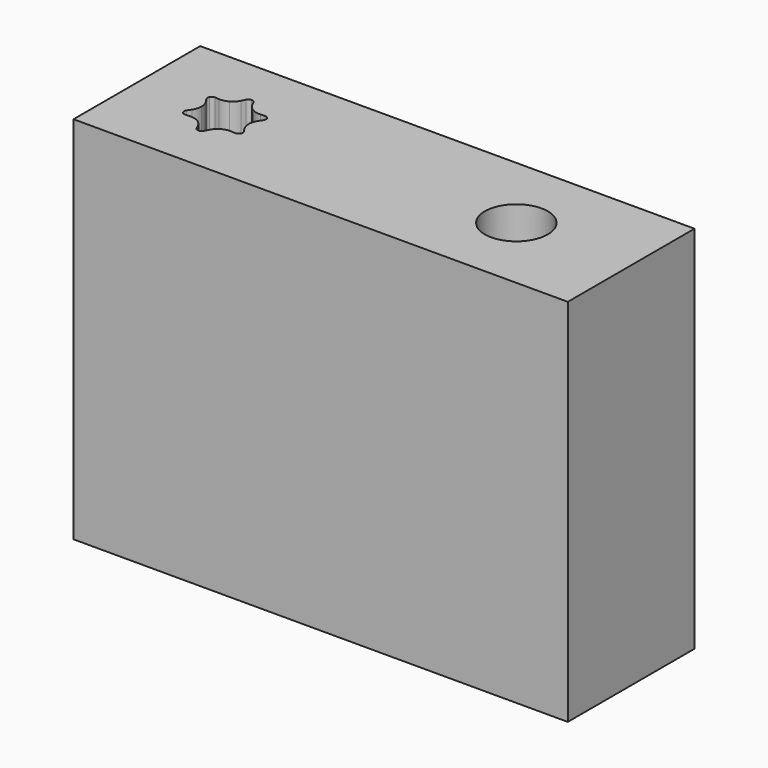
from build123d import *

# Parameters (mm, degrees)
F1_W     = 8.4873232991
F1_H     = 2.7199758333
F1_R     = 0.675
F1_R_2   = 0.53975
F2_DEPTH = 6.35


with BuildPart() as f2:
    # F1 (on Top) → F2 (new body)
    with BuildSketch(Plane.XY):
        with Locations((7.4017448351, -2)):
            Rectangle(F1_W, F1_H)
        with Locations((4.6736657841, -2)):
            Circle(F1_R, mode=Mode.SUBTRACT)
        with Locations((9.6736657841, -2)):
            Circle(F1_R_2, mode=Mode.SUBTRACT)
        with Locations((4.6736657841, -2)):
            Circle(F1_R)
        with BuildLine():
            ThreePointArc((4.6736657841, -1.43), (4.9586657841, -1.5063655198), (5.1673002642, -1.715))
            ThreePointArc((5.1673002642, -1.715), (5.2242435051, -1.8524731443), (5.2436657841, -2))
            ThreePointArc((5.2436657841, -2), (5.2242435051, -2.1475268557), (5.1673002642, -2.285))
            ThreePointArc((5.1673002642, -2.285), (4.9586657841, -2.4936344802), (4.6736657841, -2.57))
            ThreePointArc((4.6736657841, -2.57), (4.3886657841, -2.4936344802), (4.1800313039, -2.285))
            ThreePointArc((4.1800313039, -2.285), (4.1036657841, -2), (4.1800313039, -1.715))
            ThreePointArc((4.1800313039, -1.715), (4.3886657841, -1.5063655198), (4.6736657841, -1.43))
        make_face(mode=Mode.SUBTRACT)
        with BuildLine():
            ThreePointArc((4.7691686737, -1.535171729), (4.8142248801, -1.6001333677), (4.8761658007, -1.6492597211))
            ThreePointArc((4.8761658007, -1.6492597211), (4.9496809165, -1.6783389403), (5.0284674303, -1.684877936))
            Line((5.0284674303, -1.684877936), (5.102192874, -1.6801438672))
            ThreePointArc((5.102192874, -1.6801438672), (5.1397171722, -1.6882873983), (5.1673002642, -1.715))
            ThreePointArc((5.1673002642, -1.715), (4.9586657841, -1.5063655198), (4.6736657841, -1.43))
            ThreePointArc((4.6736657841, -1.43), (4.7105911218, -1.4405313575), (4.7364057757, -1.4689565876))
            Line((4.7364057757, -1.4689565876), (4.7691686737, -1.535171729))
        make_face()
        with BuildLine():
            ThreePointArc((5.1239703199, -1.850293793), (5.0902399965, -1.9217944226), (5.0786657841, -2))
            ThreePointArc((5.0786657841, -2), (5.0902399965, -2.0782055774), (5.1239703199, -2.149706207))
            Line((5.1239703199, -2.149706207), (5.1649328655, -2.2111872797))
            ThreePointArc((5.1649328655, -2.2111872797), (5.1766425099, -2.2477560407), (5.1673002642, -2.285))
            ThreePointArc((5.1673002642, -2.285), (5.2242435051, -2.1475268557), (5.2436657841, -2))
            ThreePointArc((5.2436657841, -2), (5.2242435051, -1.8524731443), (5.1673002642, -1.715))
            ThreePointArc((5.1673002642, -1.715), (5.1766425099, -1.7522439593), (5.1649328655, -1.7888127203))
            Line((5.1649328655, -1.7888127203), (5.1239703199, -1.850293793))
        make_face()
        with BuildLine():
            ThreePointArc((4.3188641378, -1.684877936), (4.3976506636, -1.6783389375), (4.4711657887, -1.6492597088))
            ThreePointArc((4.4711657887, -1.6492597088), (4.5331066964, -1.6001333588), (4.5781628945, -1.535171729))
            Line((4.5781628945, -1.535171729), (4.6109257925, -1.4689565876))
            ThreePointArc((4.6109257925, -1.4689565876), (4.6367404464, -1.4405313575), (4.6736657841, -1.43))
            ThreePointArc((4.6736657841, -1.43), (4.3886657841, -1.5063655198), (4.1800313039, -1.715))
            ThreePointArc((4.1800313039, -1.715), (4.2076143959, -1.6882873983), (4.2451386942, -1.6801438672))
            Line((4.2451386942, -1.6801438672), (4.3188641378, -1.684877936))
        make_face()
        with BuildLine():
            ThreePointArc((4.2233612482, -2.149706207), (4.2570915716, -2.0782055774), (4.2686657841, -2))
            ThreePointArc((4.2686657841, -2), (4.2570915716, -1.9217944226), (4.2233612482, -1.850293793))
            Line((4.2233612482, -1.850293793), (4.1823987026, -1.7888127203))
            ThreePointArc((4.1823987026, -1.7888127203), (4.1706890582, -1.7522439593), (4.1800313039, -1.715))
            ThreePointArc((4.1800313039, -1.715), (4.1036657841, -2), (4.1800313039, -2.285))
            ThreePointArc((4.1800313039, -2.285), (4.1706890582, -2.2477560407), (4.1823987026, -2.2111872797))
            Line((4.1823987026, -2.2111872797), (4.2233612482, -2.149706207))
        make_face()
        with BuildLine():
            ThreePointArc((4.5781628945, -2.464828271), (4.5331066964, -2.3998666412), (4.4711657887, -2.3507402912))
            ThreePointArc((4.4711657887, -2.3507402912), (4.3976506636, -2.3216610625), (4.3188641378, -2.315122064))
            Line((4.3188641378, -2.315122064), (4.2451386942, -2.3198561328))
            ThreePointArc((4.2451386942, -2.3198561328), (4.2076143959, -2.3117126017), (4.1800313039, -2.285))
            ThreePointArc((4.1800313039, -2.285), (4.3886657841, -2.4936344802), (4.6736657841, -2.57))
            ThreePointArc((4.6736657841, -2.57), (4.6367404464, -2.5594686425), (4.6109257925, -2.5310434124))
            Line((4.6109257925, -2.5310434124), (4.5781628945, -2.464828271))
        make_face()
        with BuildLine():
            ThreePointArc((5.0284674303, -2.315122064), (4.9496809045, -2.3216610625), (4.8761657795, -2.3507402912))
            ThreePointArc((4.8761657795, -2.3507402912), (4.8142248717, -2.3998666412), (4.7691686737, -2.464828271))
            Line((4.7691686737, -2.464828271), (4.7364057757, -2.5310434124))
            ThreePointArc((4.7364057757, -2.5310434124), (4.7105911218, -2.5594686425), (4.6736657841, -2.57))
            ThreePointArc((4.6736657841, -2.57), (4.9586657841, -2.4936344802), (5.1673002642, -2.285))
            ThreePointArc((5.1673002642, -2.285), (5.1397171722, -2.3117126017), (5.102192874, -2.3198561328))
            Line((5.102192874, -2.3198561328), (5.0284674303, -2.315122064))
        make_face()
    extrude(amount=F2_DEPTH)


solid = f2.part
